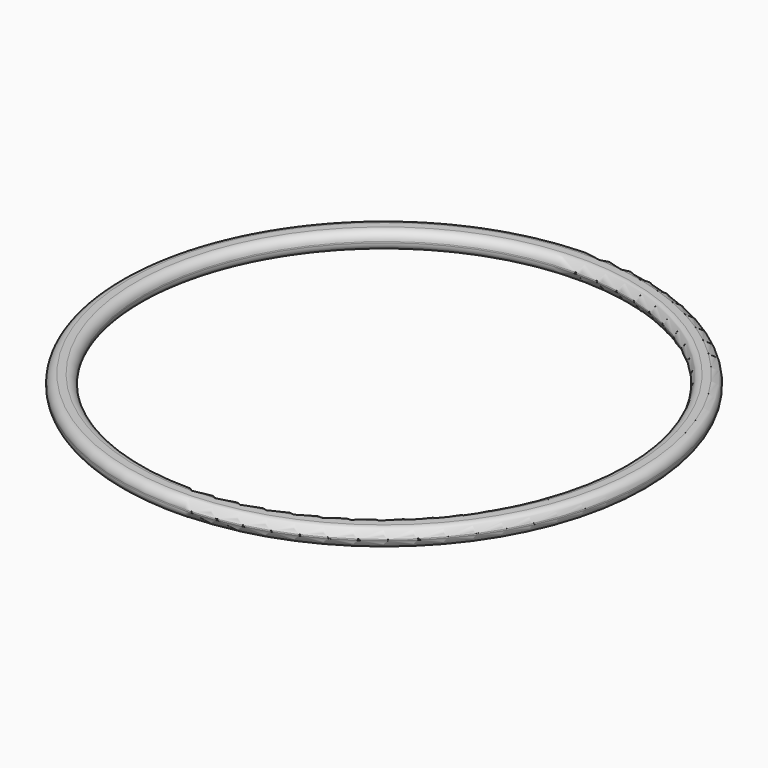
from build123d import *

# Parameters (mm, degrees)
SKETCH016_R   = 11
SKETCH016_R_2 = 10
PAD006_DEPTH  = 0.75
FILLET002_R   = 0.35
FILLET003_R   = 0.35
FILLET004_R   = 0.35
FILLET005_R   = 0.35


with BuildPart() as part:
    # Sketch016 → Pad006 (new body)
    with BuildSketch(Plane.XY):
        Circle(SKETCH016_R)
        Circle(SKETCH016_R_2, mode=Mode.SUBTRACT)
    extrude(amount=PAD006_DEPTH)

    # Fillet002
    fillet002_edges = [part.edges().sort_by_distance(p)[0] for p in [
        (-11, 0, 0.75),
    ]]
    fillet(fillet002_edges, radius=FILLET002_R)

    # Fillet003
    fillet003_edges = [part.edges().sort_by_distance(p)[0] for p in [
        (-11, 0, 0),
    ]]
    fillet(fillet003_edges, radius=FILLET003_R)

    # Fillet004
    fillet004_edges = [part.edges().sort_by_distance(p)[0] for p in [
        (-10, 0, 0.75),
    ]]
    fillet(fillet004_edges, radius=FILLET004_R)

    # Fillet005
    fillet005_edges = [part.edges().sort_by_distance(p)[0] for p in [
        (-10, 0, 0),
    ]]
    fillet(fillet005_edges, radius=FILLET005_R)


with BuildPart() as part_1:
    # Body004 placement: moved
    add(part.part.moved(Location((0, -1e-05, 130.00009))))


solid = part_1.part
